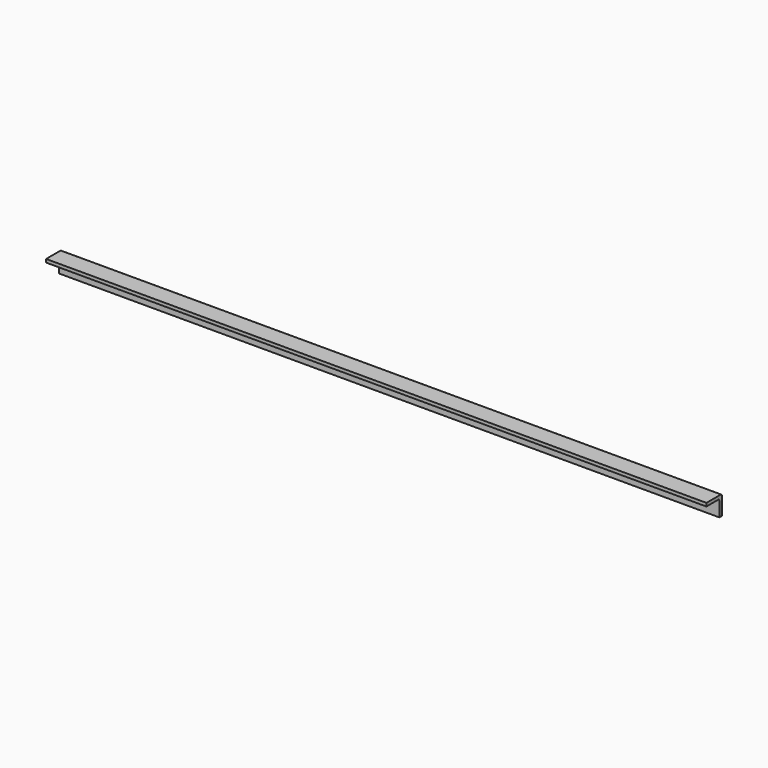
from build123d import *

# Parameters (mm, degrees)
F1_DEPTH = 1022


with BuildPart() as f1:
    # F0 (on Right) → F1 (new body)
    with BuildSketch(Plane.YZ):
        with BuildLine():
            ThreePointArc((15, 12.5), (14.267767, 14.267767), (12.5, 15))
            Line((12.5, 15), (-15, 15))
            Line((-15, 15), (-15, 10))
            Line((-15, 10), (7.5, 10))
            ThreePointArc((7.5, 10), (9.267767, 9.267767), (10, 7.5))
            Line((10, 7.5), (10, -15))
            Line((10, -15), (15, -15))
            Line((15, -15), (15, 12.5))
        make_face()
    extrude(amount=F1_DEPTH)


solid = f1.part
